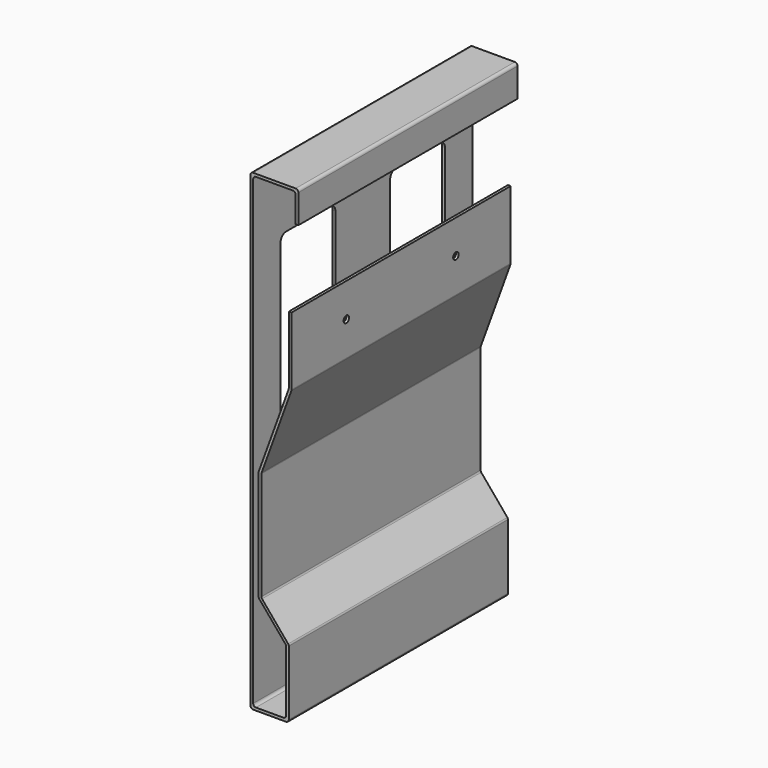
from build123d import *

# Parameters (mm, degrees)
F1_DEPTH = 200
F2_R     = 2
F4_DEPTH = 2
F6_D     = 5
F6_DEPTH = 2


with BuildPart() as f1:
    # F0 (on Front) → F1 (new body)
    with BuildSketch(Plane.XZ):
        Polygon((35, 0), (0, 0), (0, -345), (28, -345), (28, -295), (8, -271.164928), (8, -191.164928), (30, -130.720425), (30, -80.720425), (28, -80.720425), (28, -130.367771), (6, -190.812274), (6, -271.892869), (26, -295.72794), (26, -343), (2, -343), (2, -2), (33, -2), (33, -23), (35, -23), align=None)
    extrude(amount=F1_DEPTH)

    # F2
    f2_edges = [f1.edges().sort_by_distance(p)[0] for p in [
        (0, -100, 0),
        (35, -100, 0),
        (33, -100, -2),
        (2, -100, -2),
        (0, -100, -345),
        (2, -100, -343),
        (28, -100, -345),
        (26, -100, -343),
        (26, -100, -295.72794),
        (28, -100, -295),
        (8, -100, -271.164928),
        (6, -100, -271.892869),
        (6, -100, -190.812274),
        (8, -100, -191.164928),
        (30, -100, -130.720425),
        (28, -100, -130.367771),
    ]]
    fillet(f2_edges, radius=F2_R)

    # F3 (on face) → F4 (cut)
    with BuildSketch(Plane(origin=(0, 0, 0), x_dir=(0, -1, 0), z_dir=(-1, 0, 0))):
        with BuildLine():
            ThreePointArc((75, -55), (73.535534, -51.464466), (70, -50))
            Line((70, -50), (30, -50))
            ThreePointArc((30, -50), (26.464466, -51.464466), (25, -55))
            Line((25, -55), (25, -290))
            ThreePointArc((25, -290), (26.464466, -293.535534), (30, -295))
            Line((30, -295), (70, -295))
            ThreePointArc((70, -295), (73.535534, -293.535534), (75, -290))
            Line((75, -290), (75, -55))
        make_face()
        with BuildLine():
            ThreePointArc((170, -295), (173.535534, -293.535534), (175, -290))
            Line((175, -290), (175, -55))
            ThreePointArc((175, -55), (173.535534, -51.464466), (170, -50))
            Line((170, -50), (130, -50))
            ThreePointArc((130, -50), (126.464466, -51.464466), (125, -55))
            Line((125, -55), (125, -290))
            ThreePointArc((125, -290), (126.464466, -293.535534), (130, -295))
            Line((130, -295), (170, -295))
        make_face()
    extrude(amount=-F4_DEPTH, mode=Mode.SUBTRACT)

    # F6
    with Locations(Plane(origin=(28, 0, 0), x_dir=(0, -1, 0), z_dir=(-1, 0, 0))):
        with Locations((50, -105.367771), (150, -105.367771)):
            Hole(F6_D / 2, depth=F6_DEPTH)


solid = f1.part
